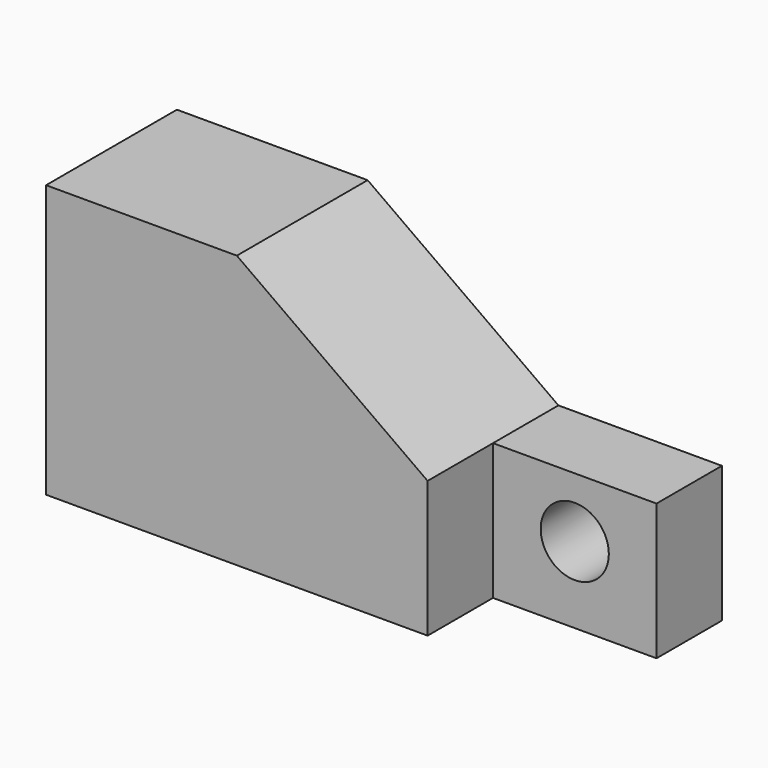
from build123d import *

# Parameters (mm, degrees)
F1_DEPTH = 38.1
F0_R     = 7.9375
F2_DEPTH = 19.05


with BuildPart() as f1:
    # F0 (on Front) → F1 (new body)
    with BuildSketch(Plane.XZ):
        Polygon((-70.49541, 18.467048), (-70.49541, -45.032952), (18.40459, -45.032952), (18.40459, -13.282952), (-26.04541, 18.467048), align=None)
    extrude(amount=F1_DEPTH)

    # F0 (on Front) → F2 (join)
    with BuildSketch(Plane.XZ):
        Polygon((18.40459, -13.282952), (18.40459, -45.032952), (56.50459, -45.032952), (56.50459, -13.282952), (37.45459, -13.282952), align=None)
        with Locations((37.45459, -27.25295)):
            Circle(F0_R, mode=Mode.SUBTRACT)
    extrude(amount=F2_DEPTH)


solid = f1.part
